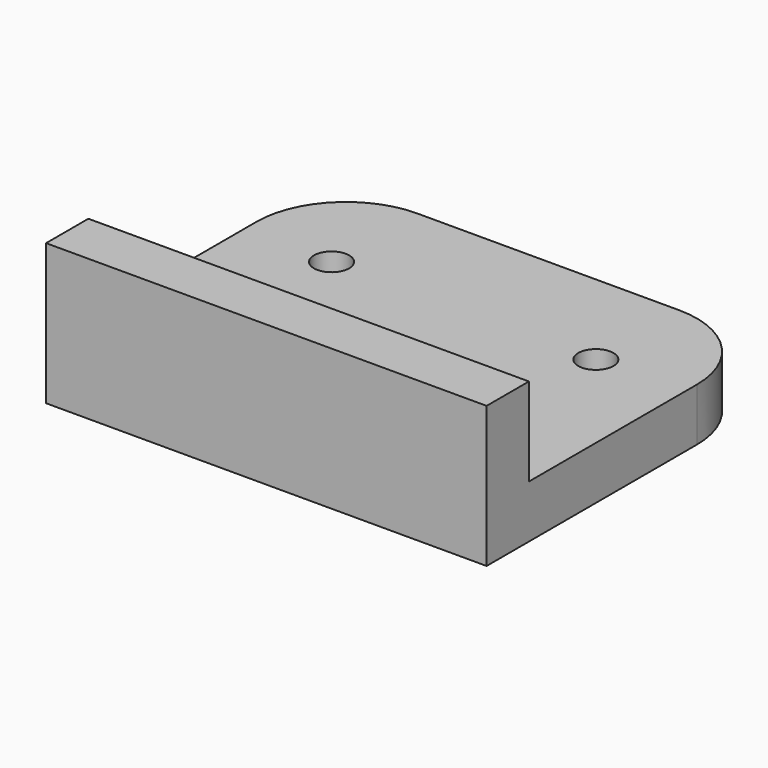
from build123d import *

# Parameters (mm, degrees)
F0_R     = 1
F1_DEPTH = 3
F2_W     = 25
F2_H     = 3
F3_DEPTH = 5


with BuildPart() as f1:
    # F0 (on Top) → F1 (new body)
    with BuildSketch(Plane.XY):
        with BuildLine():
            Line((0, 14.92), (0, 0))
            Line((0, 0), (25, 0))
            Line((25, 0), (25, 14.92))
            ThreePointArc((25, 14.92), (23.512102, 18.512102), (19.92, 20))
            Line((19.92, 20), (5.08, 20))
            ThreePointArc((5.08, 20), (1.487898, 18.512102), (0, 14.92))
        make_face()
        with Locations((5, 14)):
            Circle(F0_R, mode=Mode.SUBTRACT)
        with Locations((20, 14)):
            Circle(F0_R, mode=Mode.SUBTRACT)
    extrude(amount=F1_DEPTH)

    # F2 (on face) → F3 (join)
    with BuildSketch(Plane.XY.offset(3)):
        with Locations((12.5, 1.5)):
            Rectangle(F2_W, F2_H)
    extrude(amount=F3_DEPTH)


solid = f1.part
